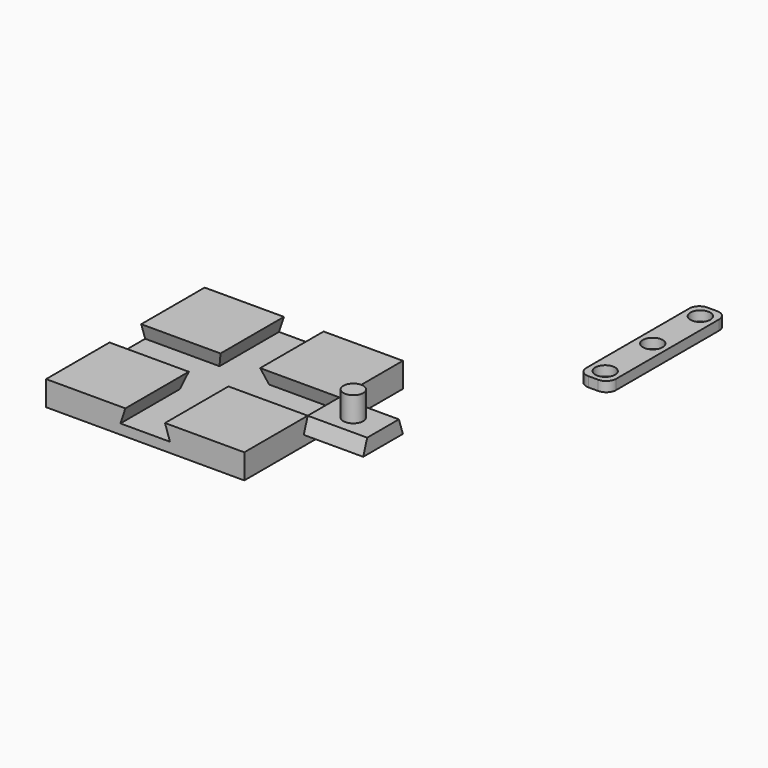
from build123d import *

# Parameters (mm, degrees)
F0_W      = 200
F0_H      = 200
F1_DEPTH  = 25
F3_DEPTH  = 200.001
F5_DEPTH  = 200.001
F6_DEPTH  = 60
F7_R      = 10
F8_DEPTH  = 25
F9_W      = 30
F9_H      = 150
F10_DEPTH = 10
F11_R     = 10
F13_R     = 10
F14_DEPTH = 35.001


with BuildPart() as f1:
    # F0 (on Top) → F1 (new body)
    with BuildSketch(Plane.XY):
        with Locations((100, -100)):
            Rectangle(F0_W, F0_H)
    extrude(amount=F1_DEPTH)

    # F2 (on face) → F3 (cut, through all)
    with BuildSketch(Plane.XZ.offset(200)):
        Polygon((120, 25), (80, 25), (75, 10), (125, 10), align=None)
    extrude(amount=-F3_DEPTH, mode=Mode.SUBTRACT)

    # F4 (on face) → F5 (cut, through all)
    with BuildSketch(Plane.YZ.offset(200)):
        Polygon((-80, 25), (-120, 25), (-125, 10), (-75, 10), align=None)
    extrude(amount=-F5_DEPTH, mode=Mode.SUBTRACT)


with BuildPart() as f6:
    # F4 (on face) → F6 (new body)
    with BuildSketch(Plane.YZ.offset(200)):
        Polygon((-80, 25), (-120, 25), (-125, 10), (-75, 10), align=None)
    extrude(amount=F6_DEPTH)

    # F7 (on face) → F8 (join)
    with BuildSketch(Plane.XY.offset(25)):
        with Locations((230, -100)):
            Circle(F7_R)
    extrude(amount=F8_DEPTH)


with BuildPart() as f10:
    # F9 (on face) → F10 (new body)
    with BuildSketch(Plane.XY.offset(25)):
        with Locations((347.449511, 130.856555)):
            Rectangle(F9_W, F9_H)
    extrude(amount=F10_DEPTH)

    # F11
    f11_edges = [f10.edges().sort_by_distance(p)[0] for p in [
        (362.449511, 55.856555, 30),
        (362.449511, 205.856555, 30),
        (332.449511, 205.856555, 30),
        (332.449511, 55.856555, 30),
    ]]
    fillet(f11_edges, radius=F11_R)

    # F13 (on face) → F14 (cut, through all)
    with BuildSketch(Plane.XY.offset(35)):
        with Locations((347.449511, 70.856555)):
            Circle(F13_R)
        with Locations((347.449511, 130.856555)):
            Circle(F13_R)
        with Locations((347.449511, 190.856555)):
            Circle(F13_R)
    extrude(amount=-F14_DEPTH, mode=Mode.SUBTRACT)


solid = Compound([f1.part, f6.part, f10.part])
